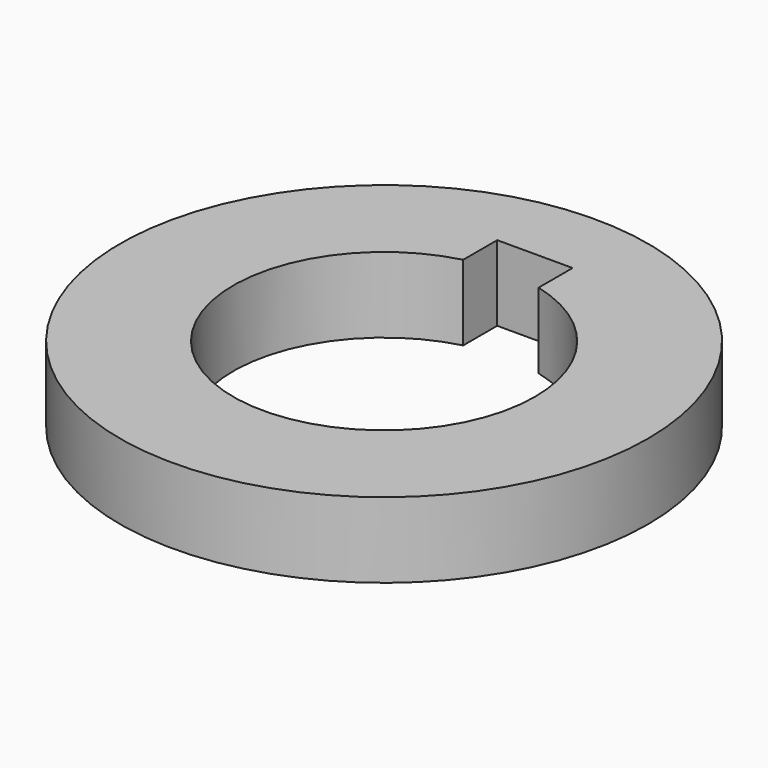
from build123d import *

# Parameters (mm, degrees)
F0_R     = 11.1125
F1_DEPTH = 3.175


with BuildPart() as f1:
    # F0 (on Top) → F1 (new body)
    with BuildSketch(Plane.XY):
        Circle(F0_R)
        with BuildLine():
            ThreePointArc((1.5875, 6.148361), (5.020116, 3.888565), (6.35, 0))
            ThreePointArc((6.35, 0), (-3.888565, -5.020116), (-1.5875, 6.148361))
            Line((-1.5875, 6.148361), (-1.5875, 6.35))
            Line((-1.5875, 6.35), (-1.5875, 7.9375))
            Line((-1.5875, 7.9375), (1.5875, 7.9375))
            Line((1.5875, 7.9375), (1.5875, 6.35))
            Line((1.5875, 6.35), (1.5875, 6.148361))
        make_face(mode=Mode.SUBTRACT)
    extrude(amount=F1_DEPTH)


solid = f1.part
